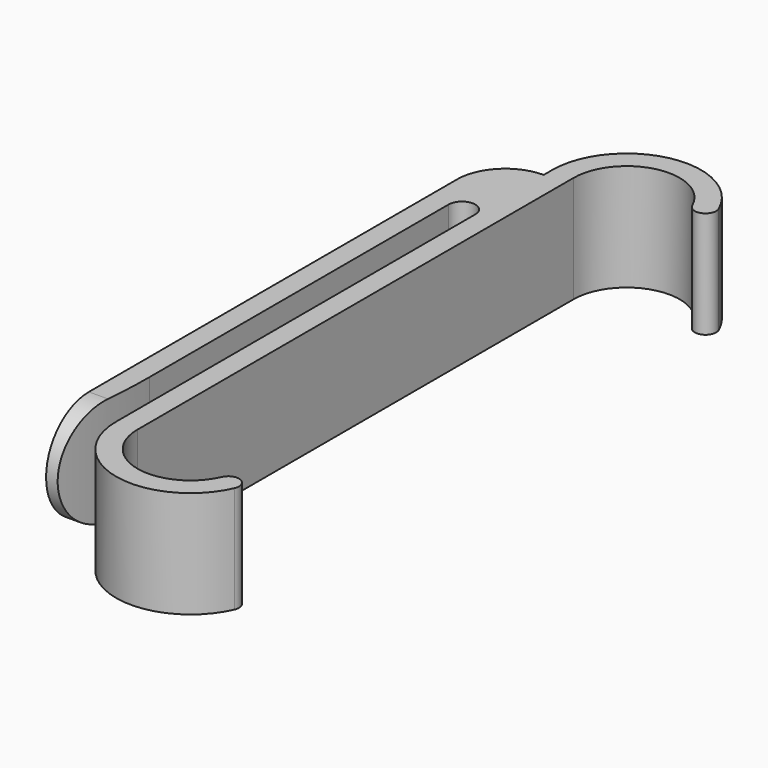
from build123d import *

# Parameters (mm, degrees)
PAD_DEPTH    = 10
POCKET_DEPTH = 4


with BuildPart() as part:
    # Sketch → Pad (new body)
    with BuildSketch(Plane.XY):
        with BuildLine():
            Line((0, 48.5), (0, 0))
            Line((0, 0), (1, 0))
            ThreePointArc((1, 0), (1.749378, 4.975062), (2, 10))
            Line((2, 10), (2, 45))
            ThreePointArc((4.5, 45), (3.25, 46.25), (2, 45))
            Line((4.5, 45), (4.5, 3))
            ThreePointArc((4.5, 3), (10.026585, -3.811222), (17.830239, 0.193634))
            ThreePointArc((17.830239, 0.193634), (17.318302, 1.511936), (16, 1))
            ThreePointArc((6.5, 3), (10.438606, -1.854122), (16, 1))
            Line((6.5, 54), (6.5, 3))
            ThreePointArc((16, 56), (10.438606, 58.854122), (6.5, 54))
            ThreePointArc((16, 56), (17.318302, 55.488064), (17.830239, 56.806366))
            ThreePointArc((17.830239, 56.806366), (10.026585, 60.811222), (4.5, 54))
            Line((4.5, 54), (4.5, 53))
            ThreePointArc((4.5, 53), (1.318019, 51.681981), (0, 48.5))
        make_face()
    extrude(amount=PAD_DEPTH)

    # Sketch001 → Pocket (cut)
    with BuildSketch(Plane(origin=(0, 0, 0), x_dir=(0, -1, 0), z_dir=(-1, 0, 0))):
        with BuildLine():
            ThreePointArc((-5.430454, 0), (-0.430454, 5), (-5.430454, 10))
            Line((-5.430454, 10), (44.569546, 10))
            Line((44.569546, 10), (44.569546, 0))
            Line((44.569546, 0), (-5.430454, 0))
        make_face()
    extrude(amount=-POCKET_DEPTH, mode=Mode.SUBTRACT)


solid = part.part
